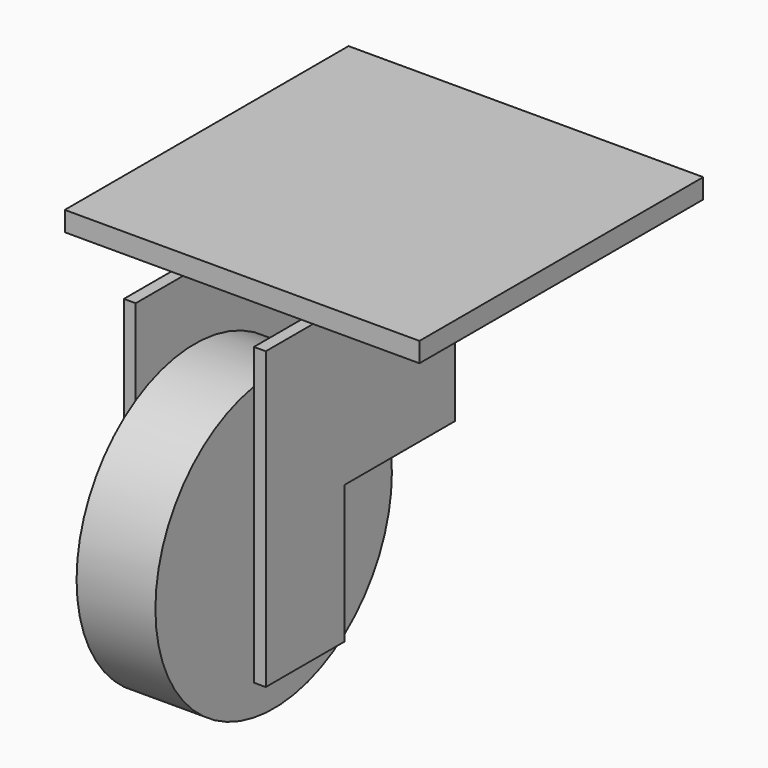
from build123d import *

# Parameters (mm, degrees)
F1_DEPTH  = 3
F2_R      = 5
F3_DEPTH  = 5
F4_R      = 37.5
F5_DEPTH  = 20
F6_R      = 5
F7_DEPTH  = 5
F9_DEPTH  = 3
F10_W     = 90
F10_H     = 90
F11_DEPTH = 5


with BuildPart() as f1:
    # F0 (on Right) → F1 (new body)
    with BuildSketch(Plane.YZ):
        Polygon((-12.5, 50), (-12.5, -25), (12.5, -25), (12.5, 10), (47.5, 10), (47.5, 50), align=None)
    extrude(amount=F1_DEPTH)

    # F2 (on face) → F3 (join)
    with BuildSketch(Plane(origin=(0, 0, 0), x_dir=(0, -1, 0), z_dir=(-1, 0, 0))):
        Circle(F2_R)
    extrude(amount=F3_DEPTH)

    # F4 (on face) → F5 (join)
    with BuildSketch(Plane(origin=(-5, 0, 0), x_dir=(0, -1, 0), z_dir=(-1, 0, 0))):
        Circle(F4_R)
    extrude(amount=F5_DEPTH)

    # F6 (on face) → F7 (join)
    with BuildSketch(Plane(origin=(-25, 0, 0), x_dir=(0, -1, 0), z_dir=(-1, 0, 0))):
        Circle(F6_R)
    extrude(amount=F7_DEPTH)

    # F8 (on face) → F9 (join)
    with BuildSketch(Plane(origin=(-30, 0, 0), x_dir=(0, -1, 0), z_dir=(-1, 0, 0))):
        Polygon((12.5, 50), (-47.5, 50), (-47.5, 10), (-12.5, 10), (-12.5, -25), (12.5, -25), align=None)
    extrude(amount=F9_DEPTH)

    # F10 (on face) → F11 (join)
    with BuildSketch(Plane.XY.offset(50)):
        with Locations((-15, 47.5)):
            Rectangle(F10_W, F10_H)
    extrude(amount=F11_DEPTH)


solid = f1.part
